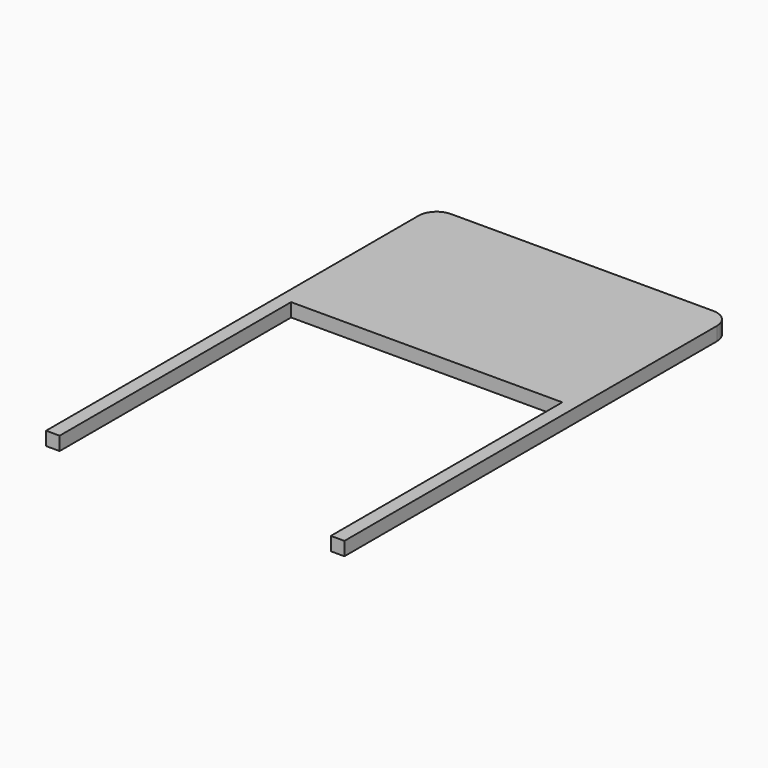
from build123d import *

# Parameters (mm, degrees)
F1_DEPTH = 38.1


with BuildPart() as f1:
    # F0 (on Top) → F1 (new body)
    with BuildSketch(Plane.XY):
        with BuildLine():
            Line((368.3, 679.45), (-368.3, 679.45))
            ThreePointArc((-368.3, 679.45), (-404.221024, 664.571024), (-419.1, 628.65))
            Line((-419.1, 628.65), (-419.1, -679.45))
            Line((-419.1, -679.45), (-381, -679.45))
            Line((-381, -679.45), (-381, 133.35))
            Line((-381, 133.35), (381, 133.35))
            Line((381, 133.35), (381, -679.45))
            Line((381, -679.45), (419.1, -679.45))
            Line((419.1, -679.45), (419.1, 628.65))
            ThreePointArc((419.1, 628.65), (404.221024, 664.571024), (368.3, 679.45))
        make_face()
    extrude(amount=F1_DEPTH)


solid = f1.part
